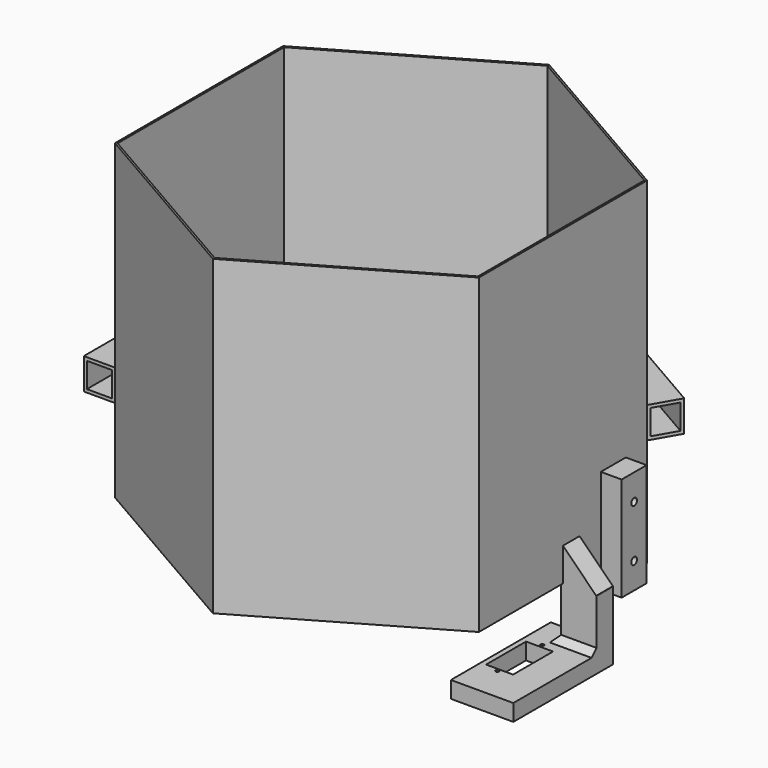
from build123d import *

# Parameters (mm, degrees)
PAD_DEPTH       = 150
SKETCH001_W     = 17
SKETCH001_H     = 10
PAD001_DEPTH    = 25
SKETCH002_W     = 30
SKETCH002_H     = 60
PAD002_DEPTH    = 8
SKETCH003_W     = 13
SKETCH003_H     = 24
POCKET_DEPTH    = 8.001
SKETCH004_R     = 0.8
HOLE_DEPTH      = 25
CHAMFER_SIZE    = 16
CHAMFER001_SIZE = 3
PAD003_DEPTH    = 12
SKETCH006_W     = 15
SKETCH006_H     = 50
PAD004_DEPTH    = 10
SKETCH007_R     = 1.7
HOLE001_DEPTH   = 6
HOLE001_TIPS_R  = 1.7
SKETCH008_W     = 15
SKETCH008_H     = 50
PAD005_DEPTH    = 10
SKETCH009_R     = 1.7
HOLE002_DEPTH   = 6
HOLE002_TIPS_R  = 1.7
SKETCH010_W     = 15
SKETCH010_H     = 50
PAD006_DEPTH    = 10
SKETCH011_R     = 1.7
HOLE003_DEPTH   = 6
HOLE003_TIPS_R  = 1.7
SKETCH012_W     = 101
SKETCH012_H     = 15
PAD007_DEPTH    = 15
SKETCH013_W     = 12
SKETCH013_H     = 12
POCKET001_DEPTH = 151.501
SKETCH014_W     = 101
SKETCH014_H     = 15
PAD008_DEPTH    = 15
SKETCH015_W     = 12
SKETCH015_H     = 12
POCKET002_DEPTH = 190.7234318643


with BuildPart() as part:
    # Sketch → Pad (new body)
    with BuildSketch(Plane.XY):
        Polygon((87.4685657822, -50.5), (87.4685657822, 50.5), (0, 101), (-87.4685657822, 50.5), (-87.4685657822, -50.5), (0, -101), align=None)
        Polygon((86.6025403784, 50), (0, 100), (-86.6025403784, 50), (-86.6025403784, -50), (0, -100), (86.6025403784, -50), align=None, mode=Mode.SUBTRACT)
    extrude(amount=PAD_DEPTH)

    # Sketch001 (on Face13 of Pad) → Pad001 (join)
    with BuildSketch(Plane(origin=(0, 0, 0), x_dir=(1, 0, 0), z_dir=(0, 0, -1))):
        with Locations((95.1025403784, -5)):
            Rectangle(SKETCH001_W, SKETCH001_H)
    extrude(amount=PAD001_DEPTH)

    # Sketch002 (on Face20 of Pad001) → Pad002 (join)
    with BuildSketch(Plane(origin=(0, 0, -25), x_dir=(1, 0, 0), z_dir=(0, 0, -1))):
        with Locations((88.6025403784, 20)):
            Rectangle(SKETCH002_W, SKETCH002_H)
    extrude(amount=PAD002_DEPTH)

    # Sketch003 (on Face21 of Pad002) → Pocket (cut, through all)
    with BuildSketch(Plane.XY.offset(-25)):
        with Locations((82.6025403784, -20)):
            Rectangle(SKETCH003_W, SKETCH003_H)
    extrude(amount=-POCKET_DEPTH, mode=Mode.SUBTRACT)

    # Sketch004 (on Face21 of Pocket) → Hole (cut)
    with BuildSketch(Plane.XY.offset(-25)):
        with Locations((82.6025403784, -6.379604)):
            Circle(SKETCH004_R)
        with Locations((82.6025403784, -33.379604)):
            Circle(SKETCH004_R)
    extrude(amount=-HOLE_DEPTH, mode=Mode.SUBTRACT)

    # Chamfer
    chamfer_edges = [part.edges().sort_by_distance(p)[0] for p in [
        (87.468566, 5, 0),
    ]]
    chamfer(chamfer_edges, length=CHAMFER_SIZE)

    # Chamfer001
    chamfer001_edges = [part.edges().sort_by_distance(p)[0] for p in [
        (95.10254, 0, -25),
        (86.60254, 5, -25),
    ]]
    chamfer(chamfer001_edges, length=CHAMFER001_SIZE)

    # Sketch005 (on Face7 of Chamfer001) → Pad003 (join)
    with BuildSketch(Plane(origin=(0, 0, 0), x_dir=(1, 0, 0), z_dir=(0, 0, -1))):
        Polygon((86.6025403784, -10), (86.6025403784, -50), (0, -100), (-86.6025403784, -50), (-87.4685657822, -50.5), (0, -101), (87.4685657822, -50.5), (87.4685657822, -10), align=None)
    extrude(amount=PAD003_DEPTH)

    # Sketch006 (on Face23 of Pad003) → Pad004 (join)
    with BuildSketch(Plane.YZ.offset(87.4685657822)):
        with Locations((30.25, 13)):
            Rectangle(SKETCH006_W, SKETCH006_H)
    extrude(amount=PAD004_DEPTH)

    # Sketch007 (on Face47 of Pad004) → Hole001 (cut)
    with BuildSketch(Plane.YZ.offset(97.4685657822)):
        with Locations((30.25, 25.5)):
            Circle(SKETCH007_R)
        with Locations((30.25, 0.5)):
            Circle(SKETCH007_R)
    extrude(amount=-HOLE001_DEPTH, mode=Mode.SUBTRACT)

    # Hole001 tips → Hole001 tip 1 section 0
    with BuildSketch(Plane.YZ.offset(91.4685657822), mode=Mode.PRIVATE) as hole001_tip_1_s0:
        with Locations((30.25, 25.5)):
            Circle(HOLE001_TIPS_R)
    loft([hole001_tip_1_s0.sketch, Vertex(90.4471027299, 30.25, 25.5)], mode=Mode.SUBTRACT)

    # Hole001 tips → Hole001 tip 2 section 0
    with BuildSketch(Plane.YZ.offset(91.4685657822), mode=Mode.PRIVATE) as hole001_tip_2_s0:
        with Locations((30.25, 0.5)):
            Circle(HOLE001_TIPS_R)
    loft([hole001_tip_2_s0.sketch, Vertex(90.4471027299, 30.25, 0.5)], mode=Mode.SUBTRACT)

    # Sketch008 (on Face48 of Hole001) → Pad005 (join)
    with BuildSketch(Plane(origin=(43.7342828911, 75.75, 0), x_dir=(-0.8660254038, 0.5, 0), z_dir=(0.5, 0.8660254038, 0))):
        with Locations((0, 13)):
            Rectangle(SKETCH008_W, SKETCH008_H)
    extrude(amount=PAD005_DEPTH)

    # Sketch009 (on Face56 of Pad005) → Hole002 (cut)
    with BuildSketch(Plane(origin=(48.7342828911, 84.4102540378, 0), x_dir=(-0.8660254038, 0.5, 0), z_dir=(0.5, 0.8660254038, 0))):
        with Locations((0, 25.5)):
            Circle(SKETCH009_R)
        with Locations((0, 0.5)):
            Circle(SKETCH009_R)
    extrude(amount=-HOLE002_DEPTH, mode=Mode.SUBTRACT)

    # Hole002 tips → Hole002 tip 1 section 0
    with BuildSketch(Plane(origin=(45.7342828911, 79.2141016151, 0), x_dir=(-0.8660254038, 0.5, 0), z_dir=(0.5, 0.8660254038, 0)), mode=Mode.PRIVATE) as hole002_tip_1_s0:
        with Locations((0, 25.5)):
            Circle(HOLE002_TIPS_R)
    loft([hole002_tip_1_s0.sketch, Vertex(45.2235513649, 78.3294886628, 25.5)], mode=Mode.SUBTRACT)

    # Hole002 tips → Hole002 tip 2 section 0
    with BuildSketch(Plane(origin=(45.7342828911, 79.2141016151, 0), x_dir=(-0.8660254038, 0.5, 0), z_dir=(0.5, 0.8660254038, 0)), mode=Mode.PRIVATE) as hole002_tip_2_s0:
        with Locations((0, 0.5)):
            Circle(HOLE002_TIPS_R)
    loft([hole002_tip_2_s0.sketch, Vertex(45.2235513649, 78.3294886628, 0.5)], mode=Mode.SUBTRACT)

    # Sketch010 (on Face44 of Hole002) → Pad006 (join)
    with BuildSketch(Plane(origin=(-43.7342828911, 75.75, 0), x_dir=(-0.8660254038, -0.5, 0), z_dir=(-0.5, 0.8660254038, 0))):
        with Locations((0, 13)):
            Rectangle(SKETCH010_W, SKETCH010_H)
    extrude(amount=PAD006_DEPTH)

    # Sketch011 (on Face62 of Pad006) → Hole003 (cut)
    with BuildSketch(Plane(origin=(-48.7342828911, 84.4102540378, 0), x_dir=(-0.8660254038, -0.5, 0), z_dir=(-0.5, 0.8660254038, 0))):
        with Locations((0, 25.5)):
            Circle(SKETCH011_R)
        with Locations((0, 0.5)):
            Circle(SKETCH011_R)
    extrude(amount=-HOLE003_DEPTH, mode=Mode.SUBTRACT)

    # Hole003 tips → Hole003 tip 1 section 0
    with BuildSketch(Plane(origin=(-45.7342828911, 79.2141016151, 0), x_dir=(-0.8660254038, -0.5, 0), z_dir=(-0.5, 0.8660254038, 0)), mode=Mode.PRIVATE) as hole003_tip_1_s0:
        with Locations((0, 25.5)):
            Circle(HOLE003_TIPS_R)
    loft([hole003_tip_1_s0.sketch, Vertex(-45.2235513649, 78.3294886628, 25.5)], mode=Mode.SUBTRACT)

    # Hole003 tips → Hole003 tip 2 section 0
    with BuildSketch(Plane(origin=(-45.7342828911, 79.2141016151, 0), x_dir=(-0.8660254038, -0.5, 0), z_dir=(-0.5, 0.8660254038, 0)), mode=Mode.PRIVATE) as hole003_tip_2_s0:
        with Locations((0, 0.5)):
            Circle(HOLE003_TIPS_R)
    loft([hole003_tip_2_s0.sketch, Vertex(-45.2235513649, 78.3294886628, 0.5)], mode=Mode.SUBTRACT)

    # Sketch012 (on Face16 of Hole003) → Pad007 (join)
    with BuildSketch(Plane(origin=(-87.4685657822, 0, 0), x_dir=(0, -1, 0), z_dir=(-1, 0, 0))):
        with Locations((0, 47.5)):
            Rectangle(SKETCH012_W, SKETCH012_H)
    extrude(amount=PAD007_DEPTH)

    # Sketch013 (on Face61 of Pad007) → Pocket001 (cut, through all)
    with BuildSketch(Plane(origin=(0, 50.5, 0), x_dir=(-1, 0, 0), z_dir=(0, 1, 0))):
        with Locations((94.9685657822, 47.5)):
            Rectangle(SKETCH013_W, SKETCH013_H)
    extrude(amount=-POCKET001_DEPTH, mode=Mode.SUBTRACT)

    # Sketch014 (on Face27 of Pocket001) → Pad008 (join)
    with BuildSketch(Plane(origin=(43.7342828911, 75.75, 0), x_dir=(-0.8660254038, 0.5, 0), z_dir=(0.5, 0.8660254038, 0))):
        with Locations((0, 47.5)):
            Rectangle(SKETCH014_W, SKETCH014_H)
    extrude(amount=PAD008_DEPTH)

    # Sketch015 (on Face49 of Pad008) → Pocket002 (cut, through all)
    with BuildSketch(Plane(origin=(-43.7342828911, 25.25, 0), x_dir=(-0.5, -0.8660254038, 0), z_dir=(-0.8660254038, 0.5, 0))):
        with Locations((-94.9685657822, 47.5)):
            Rectangle(SKETCH015_W, SKETCH015_H)
    extrude(amount=-POCKET002_DEPTH, mode=Mode.SUBTRACT)


solid = part.part
